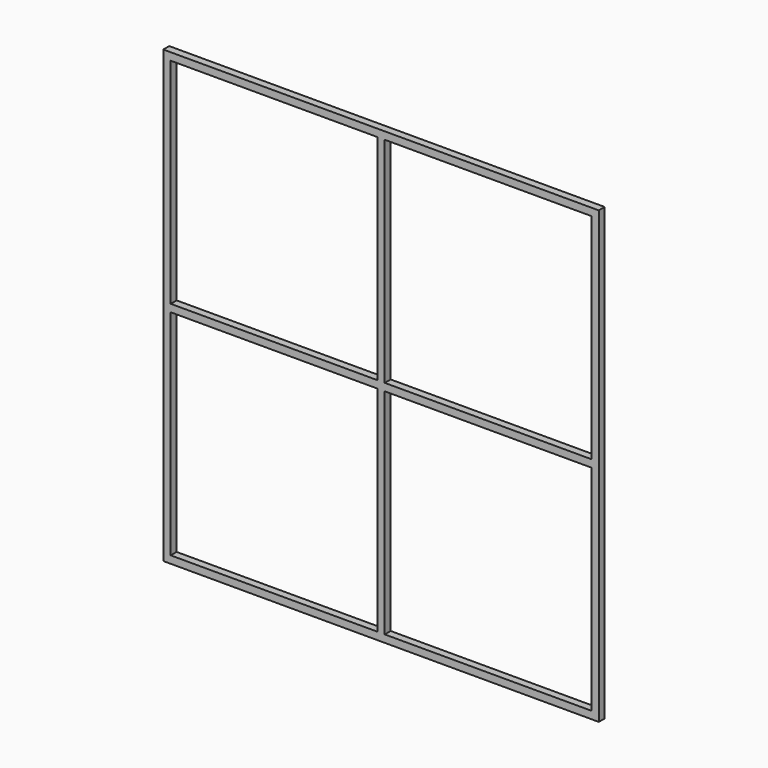
from build123d import *

# Parameters (mm, degrees)
F0_W     = 1934
F0_H     = 2000
F0_W_2   = 917.5
F0_H_2   = 33
F0_W_3   = 33
F0_H_3   = 950.5
F1_DEPTH = 33


with BuildPart() as f1:
    # F0 (on Front) → F1 (new body)
    with BuildSketch(Plane.XZ):
        with Locations((967, 1000)):
            Rectangle(F0_W, F0_H)
        Polygon((950.5, 33), (33, 33), (33, 983.5), (33, 1016.5), (33, 1967), (950.5, 1967), (983.5, 1967), (1901, 1967), (1901, 1016.5), (1901, 983.5), (1901, 33), (983.5, 33), align=None, mode=Mode.SUBTRACT)
        with Locations((491.75, 1000)):
            Rectangle(F0_W_2, F0_H_2)
        with Locations((1442.25, 1000)):
            Rectangle(F0_W_2, F0_H_2)
        with Locations((967, 508.25)):
            Rectangle(F0_W_3, F0_H_3)
        with Locations((967, 1000)):
            Rectangle(F0_W_3, F0_H_2)
        with Locations((967, 1491.75)):
            Rectangle(F0_W_3, F0_H_3)
    extrude(amount=F1_DEPTH)


solid = f1.part
